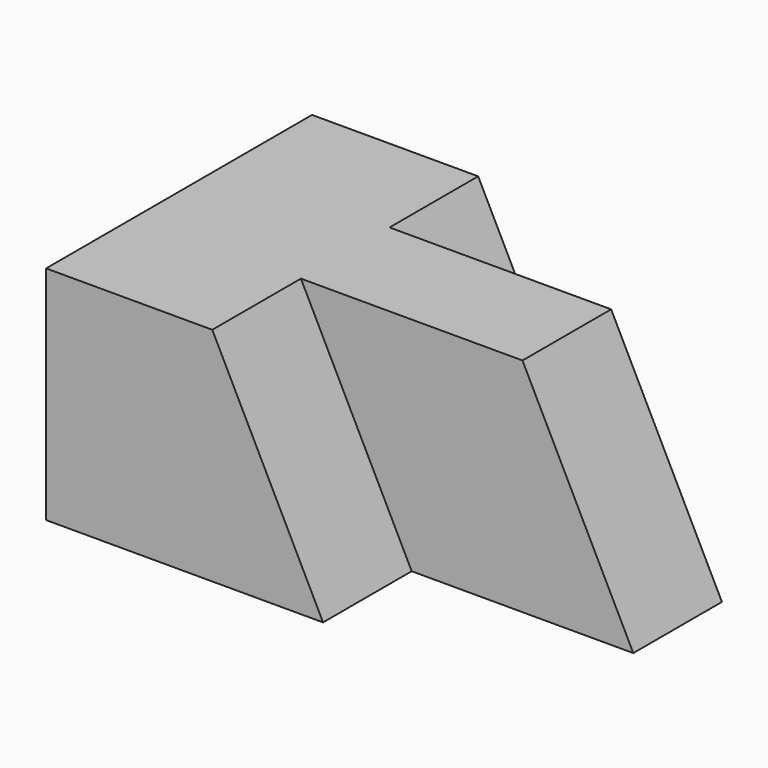
from build123d import *

# Parameters (mm, degrees)
F0_W     = 44.45
F0_H     = 25.4
F1_DEPTH = 12.7
F4_DEPTH = 12.7
F5_DEPTH = 12.7
F7_DEPTH = 12.7


with BuildPart() as f1:
    # F0 (on Front) → F1 (new body)
    with BuildSketch(Plane.XZ):
        with Locations((-10.203003, 11.895113)):
            Rectangle(F0_W, F0_H)
    extrude(amount=F1_DEPTH)

    # F3 (on face) → F4 (join)
    with BuildSketch(Plane(origin=(0, 0, 0), x_dir=(-1, 0, 0), z_dir=(0, 1, 0))):
        Polygon((32.428003, -0.804887), (32.428003, 24.595113), (13.378003, 24.595113), (0.678003, -0.804887), align=None)
    extrude(amount=F4_DEPTH)

    # F2 (on face) → F5 (join)
    with BuildSketch(Plane.XZ.offset(12.7)):
        Polygon((-13.378003, 24.595113), (-32.428003, 24.595113), (-32.428003, -0.804887), (-0.678003, -0.804887), align=None)
    extrude(amount=F5_DEPTH)

    # F6 (on face) → F7 (join)
    with BuildSketch(Plane.XZ.offset(12.7)):
        Polygon((24.721997, -0.804887), (12.021997, 24.595113), (12.021997, -0.804887), align=None)
    extrude(amount=-F7_DEPTH)


solid = f1.part
